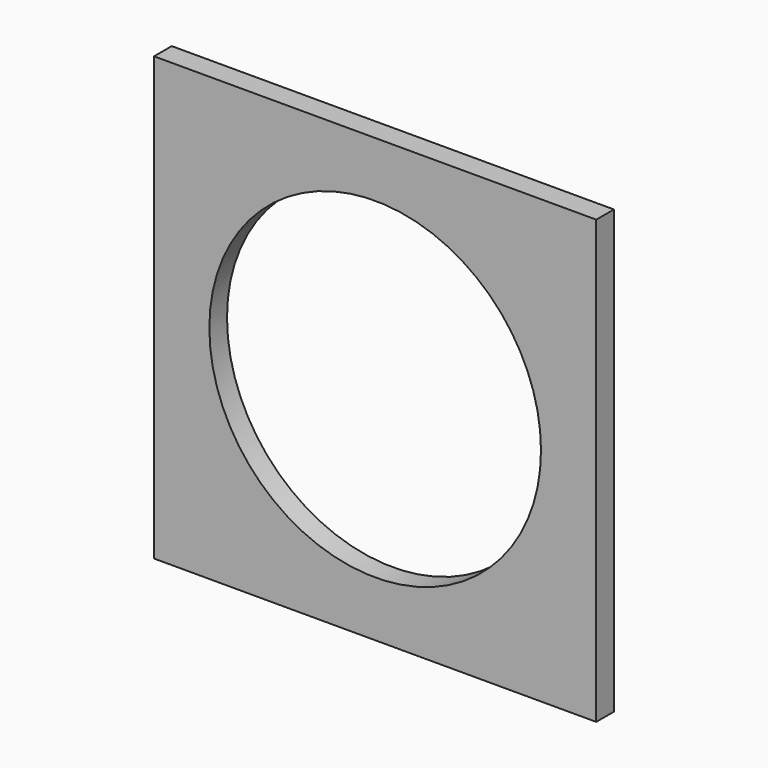
from build123d import *

# Parameters (mm, degrees)
F0_W     = 800
F0_H     = 800
F1_DEPTH = 40
F3_D     = 600


with BuildPart() as f1:
    # F0 (on Front) → F1 (new body)
    with BuildSketch(Plane.XZ):
        Rectangle(F0_W, F0_H)
    extrude(amount=-F1_DEPTH)

    # F3 (through all)
    with Locations(Plane.XZ):
        with Locations((0, 0)):
            Hole(F3_D / 2)


solid = f1.part
